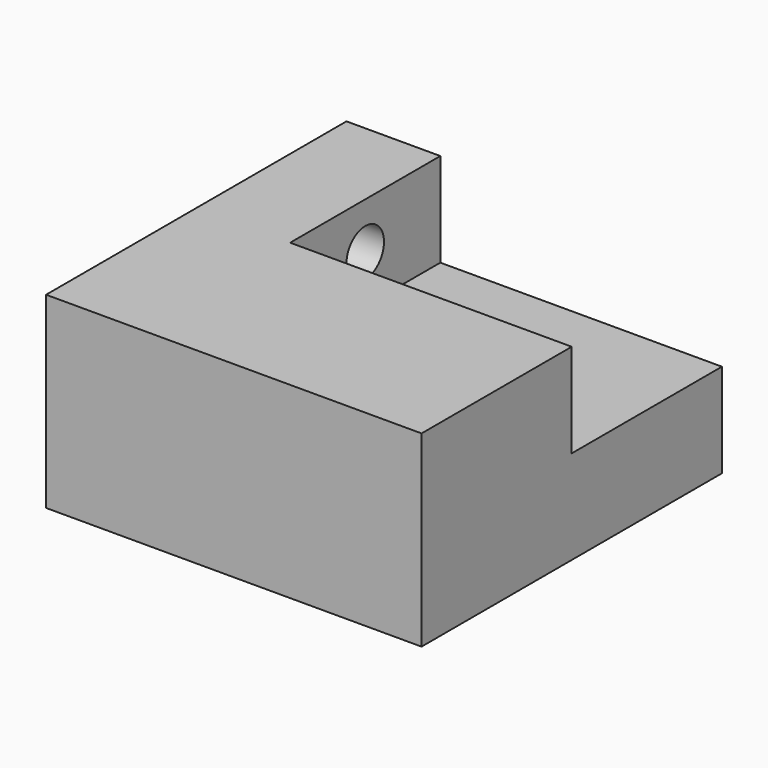
from build123d import *

# Parameters (mm, degrees)
F0_W     = 50.8
F0_H     = 50.8
F1_DEPTH = 6.35
F2_W     = 50.8
F2_H     = 25.4
F3_DEPTH = 12.7
F4_W     = 12.7
F4_H     = 25.4
F5_DEPTH = 12.7
F7_D     = 6.35


with BuildPart() as f1:
    # F0 (on Top) → F1 (new body, symmetric)
    with BuildSketch(Plane.XY):
        with Locations((6.228447, 33.990965)):
            Rectangle(F0_W, F0_H)
    extrude(amount=F1_DEPTH, both=True)

    # F2 (on face) → F3 (join, symmetric)
    with BuildSketch(Plane.XY.offset(6.35)):
        with Locations((6.228447, 21.290965)):
            Rectangle(F2_W, F2_H)
    extrude(amount=F3_DEPTH, both=True)

    # F4 (on face) → F5 (join, symmetric)
    with BuildSketch(Plane.XY.offset(6.35)):
        with Locations((-12.821553, 46.690965)):
            Rectangle(F4_W, F4_H)
    extrude(amount=F5_DEPTH, both=True)

    # F7 (through all)
    with Locations(Plane.YZ.offset(-6.471553)):
        with Locations((46.690965, 12.7)):
            Hole(F7_D / 2)


solid = f1.part
